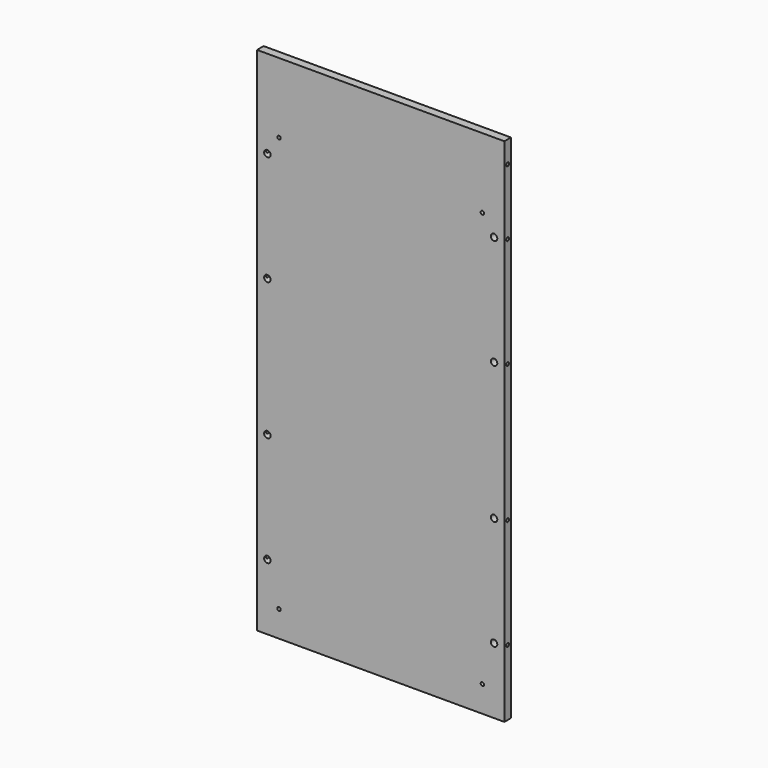
from build123d import *

# Parameters (mm, degrees)
F0_W     = 571.5
F0_H     = 1181.1
F1_DEPTH = 19.05
F3_D     = 15.0114
F3_DEPTH = 14.224
F3_TIP   = 4.5098795482
F5_D     = 8.001
F5_DEPTH = 25.4
F5_TIP   = 2.4037429064
F7_D     = 8.001
F7_DEPTH = 25.4
F7_TIP   = 2.4037429064
F9_D     = 8.001
F9_DEPTH = 14.224
F9_TIP   = 2.4037429064


with BuildPart() as f1:
    # F0 (on Front) → F1 (new body)
    with BuildSketch(Plane.XZ):
        Rectangle(F0_W, F0_H)
    extrude(amount=F1_DEPTH)

    # F3
    with Locations(Plane.XZ.offset(19.05)):
        with Locations((-261.874, 387.35), (-261.874, 133.35), (-261.874, -184.15), (-261.874, -438.15), (261.874, -438.15), (261.874, -184.15), (261.874, 133.35), (261.874, 387.35)):
            Hole(F3_D / 2, depth=F3_DEPTH)
            with Locations((0, 0, -(F3_DEPTH + F3_TIP / 2))):  # 118° drill point
                Cone(0, F3_D / 2, F3_TIP, mode=Mode.SUBTRACT)

    # F5
    with Locations(Plane.YZ.offset(285.75)):
        with Locations((-9.525, 539.75), (-9.525, 387.35), (-9.525, 133.35), (-9.525, -184.15), (-9.525, -438.15)):
            Hole(F5_D / 2, depth=F5_DEPTH)
            with Locations((0, 0, -(F5_DEPTH + F5_TIP / 2))):  # 118° drill point
                Cone(0, F5_D / 2, F5_TIP, mode=Mode.SUBTRACT)

    # F7
    with Locations(Plane(origin=(-285.75, 0, 0), x_dir=(0, -1, 0), z_dir=(-1, 0, 0))):
        with Locations((9.525, 539.75), (9.525, 387.35), (9.525, 133.35), (9.525, -184.15), (9.525, -438.15)):
            Hole(F7_D / 2, depth=F7_DEPTH)
            with Locations((0, 0, -(F7_DEPTH + F7_TIP / 2))):  # 118° drill point
                Cone(0, F7_D / 2, F7_TIP, mode=Mode.SUBTRACT)

    # F9
    with Locations(Plane.XZ.offset(19.05)):
        with Locations((-234.95, -530.225), (234.95, -530.225), (-234.95, 428.625), (234.95, 428.625)):
            Hole(F9_D / 2, depth=F9_DEPTH)
            with Locations((0, 0, -(F9_DEPTH + F9_TIP / 2))):  # 118° drill point
                Cone(0, F9_D / 2, F9_TIP, mode=Mode.SUBTRACT)


solid = f1.part
